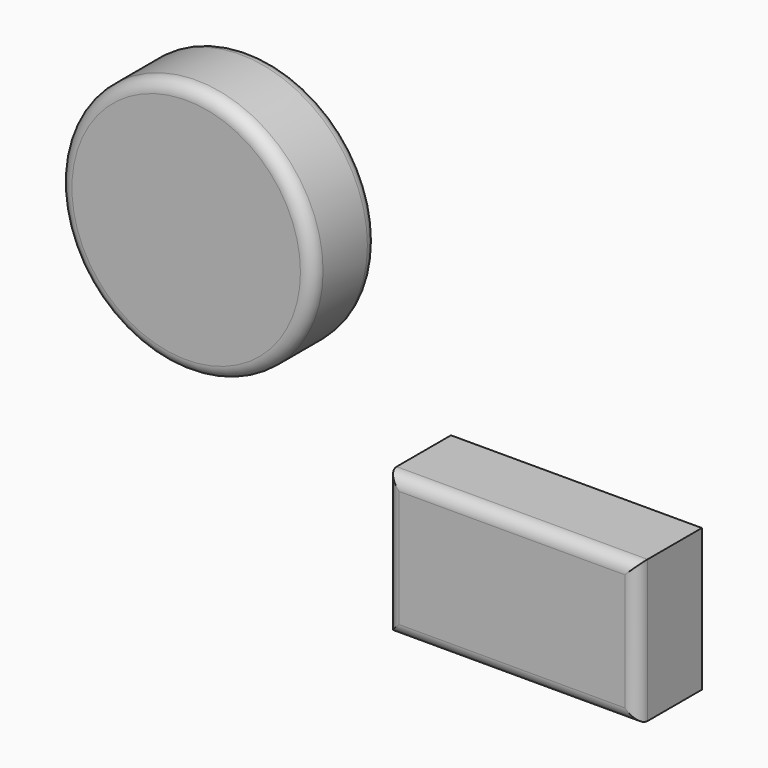
from build123d import *

# Parameters (mm, degrees)
F0_R     = 51.212644
F0_W     = 101.298992
F0_H     = 57.468595
F1_DEPTH = 32.512
F2_R     = 5.08


with BuildPart() as f1:
    # F0 (on Front) → F1 (new body)
    with BuildSketch(Plane.XZ):
        with Locations((-35.777971, 37.459157)):
            Circle(F0_R)
        with Locations((95.750345, -51.15813)):
            Rectangle(F0_W, F0_H)
    extrude(amount=-F1_DEPTH)

    # F2
    f2_edges = [f1.edges().sort_by_distance(p)[0] for p in [
        (15.434673, 16.256, 37.459157),
        (-86.990615, 0, 37.459157),
        (-86.990615, 32.512, 37.459157),
        (95.750345, 0, -22.423832),
        (45.100849, 0, -51.158129),
        (95.750345, 0, -79.892427),
        (146.399841, 0, -51.158129),
    ]]
    fillet(f2_edges, radius=F2_R)


solid = f1.part
